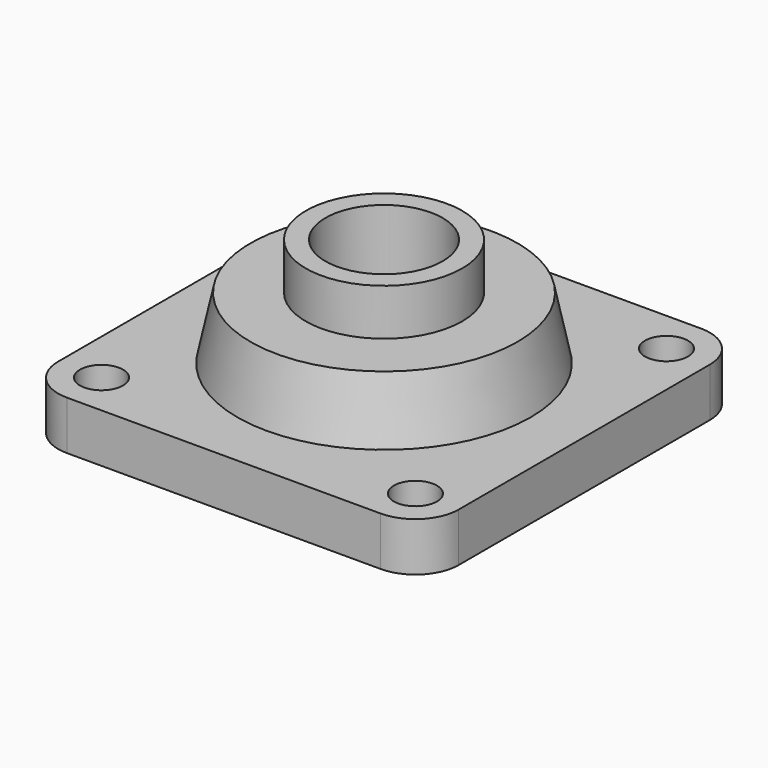
from build123d import *

# Parameters (mm, degrees)
SKETCH001_R   = 7
SKETCH001_R_2 = 19.05
PAD_DEPTH     = 15.875


with BuildPart() as part:
    # Sketch → Revolution (revolve)
    with BuildSketch(Plane.XZ):
        Polygon((19.05, 0), (19.05, 51.2064), (25.4, 51.2064), (25.4, 36.068), (43.4, 36.068), (51.05, 0), align=None)
    revolve(axis=Axis((0, 0, 0), (0, 0, 1)))

    # Sketch001 → Pad (new body)
    with BuildSketch(Plane.XY):
        with BuildLine():
            ThreePointArc((-51.0032, 65.0875), (-60.962304, 60.962304), (-65.0875, 51.0032))
            Line((-65.0875, -51.0032), (-65.0875, 51.0032))
            ThreePointArc((-65.0875, -51.0032), (-60.962304, -60.962304), (-51.0032, -65.0875))
            Line((51.0032, -65.0875), (-51.0032, -65.0875))
            ThreePointArc((51.0032, -65.0875), (60.962304, -60.962304), (65.0875, -51.0032))
            Line((65.0875, 51.0032), (65.0875, -51.0032))
            ThreePointArc((65.0875, 51.0032), (60.962304, 60.962304), (51.0032, 65.0875))
            Line((-51.0032, 65.0875), (51.0032, 65.0875))
        make_face()
        with Locations((51.0032, 51.0032)):
            Circle(SKETCH001_R, mode=Mode.SUBTRACT)
        with Locations((-51.0032, 51.0032)):
            Circle(SKETCH001_R, mode=Mode.SUBTRACT)
        with Locations((-51.0032, -51.0032)):
            Circle(SKETCH001_R, mode=Mode.SUBTRACT)
        with Locations((51.0032, -51.0032)):
            Circle(SKETCH001_R, mode=Mode.SUBTRACT)
        Circle(SKETCH001_R_2, mode=Mode.SUBTRACT)
    extrude(amount=PAD_DEPTH)


solid = part.part
